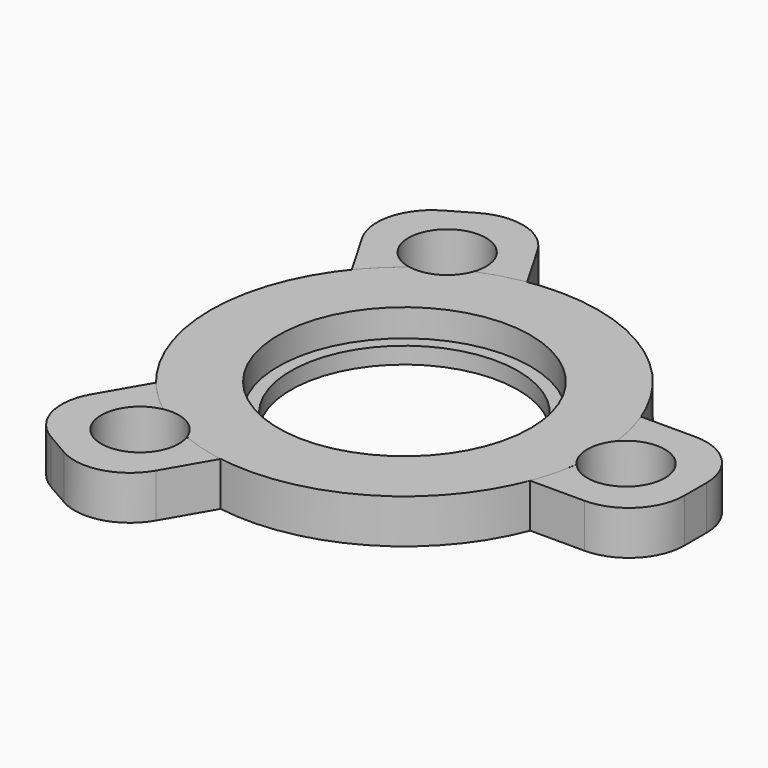
from build123d import *

# Parameters (mm, degrees)
CYLINDER030_R     = 4.55
CYLINDER030_DEPTH = 10
CYLINDER029_R     = 1.4
CYLINDER029_DEPTH = 10
ARRAY002_COUNT    = 3
CYLINDER031_R     = 4.1
CYLINDER031_DEPTH = 10
BOX002_W          = 10
BOX002_H          = 5
BOX002_DEPTH      = 1.5875
FILLET001_R       = 2
ARRAY003_COUNT    = 3
CYLINDER032_R     = 7
CYLINDER032_DEPTH = 1.59


with BuildPart() as mountplatelip001:
    # Cylinder030 → Cylinder030 (new body)
    with BuildSketch(Plane.XY.offset(0.6)):
        Circle(CYLINDER030_R)
    extrude(amount=CYLINDER030_DEPTH)


with BuildPart() as array002:
    # Cylinder029 → Cylinder029 (new body)
    with BuildSketch(Plane(origin=(8, 0, 0), x_dir=(1, 0, 0), z_dir=(0, 0, 1))):
        Circle(CYLINDER029_R)
    extrude(amount=CYLINDER029_DEPTH)

    # Array002: Array002 ×3 about axis
    array002_axis = Axis((0, 0, 0), (0, 0, 1))


with BuildPart() as array002_1:
    add(array002.part)
    for i in range(1, ARRAY002_COUNT):
        add(array002.part.rotate(array002_axis, i * 360 / ARRAY002_COUNT))


with BuildPart() as fusion006:
    # Cylinder031 → Cylinder031 (new body)
    with BuildSketch(Plane.XY):
        Circle(CYLINDER031_R)
    extrude(amount=CYLINDER031_DEPTH)

    # Fusion006: union MountPlateLip001, Array002
    add(mountplatelip001.part)
    add(array002_1.part)


with BuildPart() as array003:
    # Box002 → Box002 (new body)
    with BuildSketch(Plane(origin=(0.5, -2.5, 0), x_dir=(1, 0, 0), z_dir=(0, 0, 1))):
        with Locations((5, 2.5)):
            Rectangle(BOX002_W, BOX002_H)
    extrude(amount=BOX002_DEPTH)

    # Fillet001
    fillet001_edges = [array003.edges().sort_by_distance(p)[0] for p in [
        (10.5, -2.5, 0.79375),
        (10.5, 2.5, 0.79375),
    ]]
    fillet(fillet001_edges, radius=FILLET001_R)

    # Array003: Array003 ×3 about axis
    array003_axis = Axis((0, 0, 0), (0, 0, 1))


with BuildPart() as array003_1:
    add(array003.part)
    for i in range(1, ARRAY003_COUNT):
        add(array003.part.rotate(array003_axis, i * 360 / ARRAY003_COUNT))


with BuildPart() as cut009:
    # Cylinder032 → Cylinder032 (new body)
    with BuildSketch(Plane.XY):
        Circle(CYLINDER032_R)
    extrude(amount=CYLINDER032_DEPTH)

    # Fusion007: union Array003
    add(array003_1.part)

    # Cut009: cut Fusion006
    add(fusion006.part, mode=Mode.SUBTRACT)


solid = cut009.part
